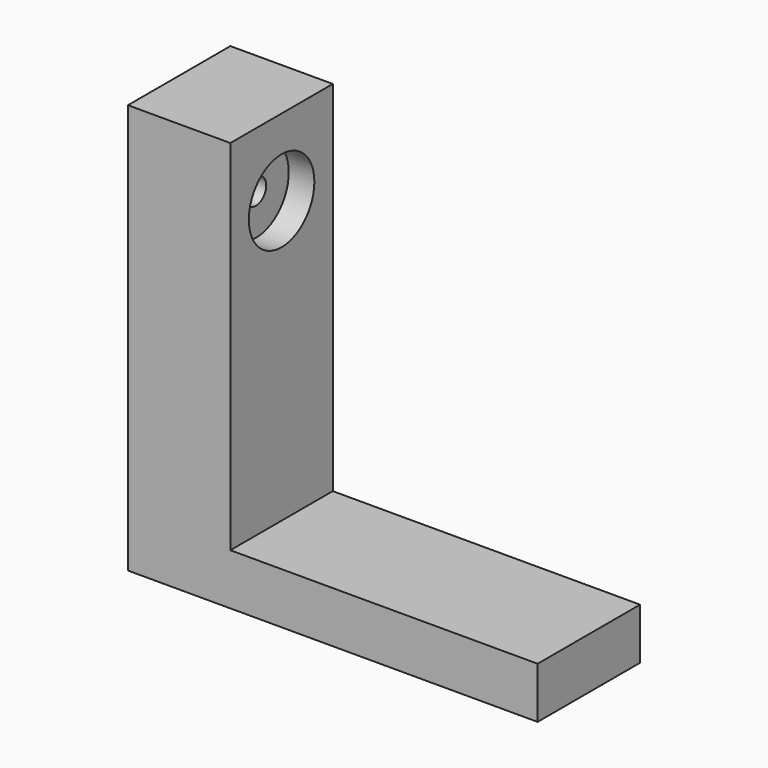
from build123d import *

# Parameters (mm, degrees)
F0_W     = 31.75
F0_H     = 101.6
F1_DEPTH = 25.4
F2_R     = 10.16
F3_DEPTH = 6.35
F4_R     = 3.175
F5_DEPTH = 3.175
F6_W     = 76.2
F6_H     = 12.7
F7_DEPTH = 31.75


with BuildPart() as f1:
    # F0 (on Right) → F1 (new body)
    with BuildSketch(Plane.YZ):
        with Locations((15.875, 50.8)):
            Rectangle(F0_W, F0_H)
    extrude(amount=-F1_DEPTH)

    # F2 (on face) → F3 (cut)
    with BuildSketch(Plane.YZ):
        with Locations((15.875, 82.55)):
            Circle(F2_R)
    extrude(amount=-F3_DEPTH, mode=Mode.SUBTRACT)

    # F4 (on face) → F5 (cut)
    with BuildSketch(Plane.YZ.offset(-6.35)):
        with Locations((15.875, 82.55)):
            Circle(F4_R)
    extrude(amount=-F5_DEPTH, mode=Mode.SUBTRACT)

    # F6 (on face) → F7 (join)
    with BuildSketch(Plane.XZ):
        with Locations((38.1, 6.35)):
            Rectangle(F6_W, F6_H)
    extrude(amount=-F7_DEPTH)


solid = f1.part
